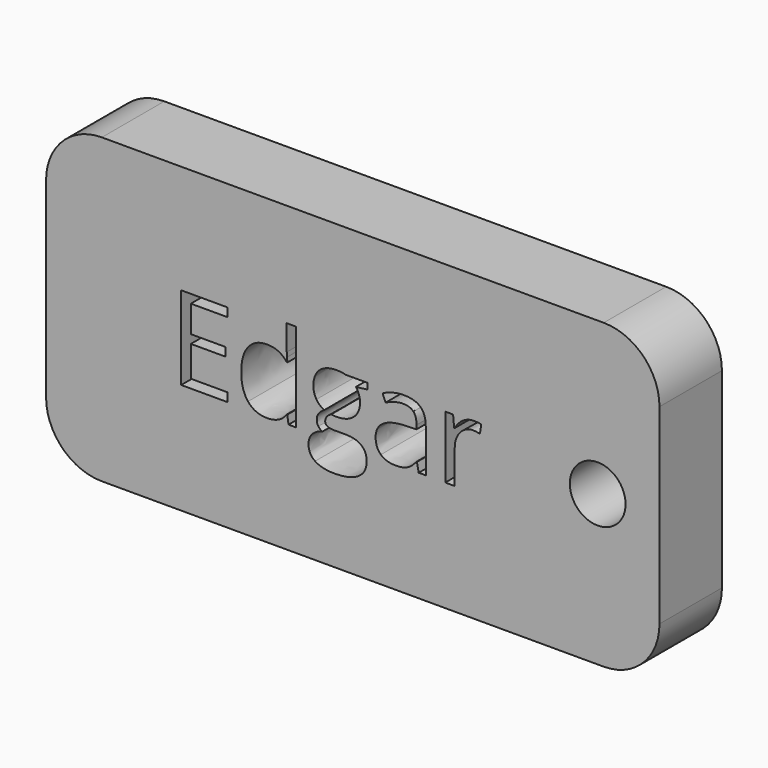
from build123d import *

# Parameters (mm, degrees)
F0_R     = 3.175
F1_DEPTH = 8.89


with BuildPart() as f1:
    # F0 (on Front) → F1 (new body)
    with BuildSketch(Plane.XZ):
        with BuildLine():
            ThreePointArc((-21.9656324044, -6.2401519575), (-20.1057604649, -10.7302800181), (-15.6156324044, -12.5901519575))
            Line((-15.6156324044, -12.5901519575), (41.5343675956, -12.5901519575))
            ThreePointArc((41.5343675956, -12.5901519575), (46.0244956561, -10.7302800181), (47.8843675956, -6.2401519575))
            Line((47.8843675956, -6.2401519575), (47.8843675956, 15.5370884062))
            ThreePointArc((47.8843675956, 15.5370884062), (46.0244956561, 20.0272164667), (41.5343675956, 21.8870884062))
            Line((41.5343675956, 21.8870884062), (-15.6156324044, 21.8870884062))
            ThreePointArc((-15.6156324044, 21.8870884062), (-20.1057604649, 20.0272164667), (-21.9656324044, 15.5370884062))
            Line((-21.9656324044, 15.5370884062), (-21.9656324044, -6.2401519575))
        make_face()
        with BuildLine():
            Line((12.1711680144, 7.1195565384), (14.6323519389, 7.1195565384))
            Line((14.6323519389, 7.1195565384), (14.6323519389, 6.4377420729))
            Line((14.6323519389, 6.4377420729), (13.3144544658, 6.2818393749))
            add(Edge.make_bspline(
                [(13.3144544658, 6.2818393749), (13.4953015954, 6.0552607873), (13.6387320775, 5.6873304202)],
                knots=[0, 0, 0, 1, 1, 1], degree=2))
            add(Edge.make_bspline(
                [(13.6387320775, 5.6873304202), (13.7821625596, 5.3194000531), (13.7821625596, 4.8600067699)],
                knots=[0, 0, 0, 1, 1, 1], degree=2))
            add(Edge.make_bspline(
                [(13.7821625596, 4.8600067699), (13.7821625596, 3.8123406398), (13.0670888518, 3.1887298482)],
                knots=[0, 0, 0, 1, 1, 1], degree=2))
            add(Edge.make_bspline(
                [(13.0670888518, 3.1887298482), (12.352015144, 2.5651190565), (11.1047935606, 2.5651190565)],
                knots=[0, 0, 0, 1, 1, 1], degree=2))
            add(Edge.make_bspline(
                [(11.1047935606, 2.5651190565), (10.7867520569, 2.5651190565), (10.5082059032, 2.6170866224)],
                knots=[0, 0, 0, 1, 1, 1], degree=2))
            add(Edge.make_bspline(
                [(10.5082059032, 2.6170866224), (9.8201553297, 2.2533136606), (9.8201553297, 1.7024574613)],
                knots=[0, 0, 0, 1, 1, 1], degree=2))
            add(Edge.make_bspline(
                [(9.8201553297, 1.7024574613), (9.8201553297, 1.4093603892), (10.0602454845, 1.2700873124)],
                knots=[0, 0, 0, 1, 1, 1], degree=2))
            add(Edge.make_bspline(
                [(10.0602454845, 1.2700873124), (10.3003356393, 1.1308142356), (10.8844510809, 1.1308142356)],
                knots=[0, 0, 0, 1, 1, 1], degree=2))
            Line((10.8844510809, 1.1308142356), (12.1441448801, 1.1308142356))
            add(Edge.make_bspline(
                [(12.1441448801, 1.1308142356), (13.30198225, 1.1308142356), (13.9214356364, 0.6433584668)],
                knots=[0, 0, 0, 1, 1, 1], degree=2))
            add(Edge.make_bspline(
                [(13.9214356364, 0.6433584668), (14.5408890228, 0.1559026979), (14.5408890228, -0.7732773817)],
                knots=[0, 0, 0, 1, 1, 1], degree=2))
            add(Edge.make_bspline(
                [(14.5408890228, -0.7732773817), (14.5408890228, -1.9560591833), (13.5930006194, -2.576551921)],
                knots=[0, 0, 0, 1, 1, 1], degree=2))
            add(Edge.make_bspline(
                [(13.5930006194, -2.576551921), (12.6451122161, -3.1970446587), (10.826247407, -3.1970446587)],
                knots=[0, 0, 0, 1, 1, 1], degree=2))
            add(Edge.make_bspline(
                [(10.826247407, -3.1970446587), (9.4293592336, -3.1970446587), (8.672711473, -2.677368999)],
                knots=[0, 0, 0, 1, 1, 1], degree=2))
            add(Edge.make_bspline(
                [(8.672711473, -2.677368999), (7.9160637125, -2.1576933392), (7.9160637125, -1.2077262332)],
                knots=[0, 0, 0, 1, 1, 1], degree=2))
            add(Edge.make_bspline(
                [(7.9160637125, -1.2077262332), (7.9160637125, -0.5591710099), (8.3318042402, -0.0841874569)],
                knots=[0, 0, 0, 1, 1, 1], degree=2))
            add(Edge.make_bspline(
                [(8.3318042402, -0.0841874569), (8.747544768, 0.3907960961), (9.5000351233, 0.5591710099)],
                knots=[0, 0, 0, 1, 1, 1], degree=2))
            add(Edge.make_bspline(
                [(9.5000351233, 0.5591710099), (9.2277250776, 0.6818144656), (9.0427205428, 0.9416522954)],
                knots=[0, 0, 0, 1, 1, 1], degree=2))
            add(Edge.make_bspline(
                [(9.0427205428, 0.9416522954), (8.8577160079, 1.2014901253), (8.8577160079, 1.5465547634)],
                knots=[0, 0, 0, 1, 1, 1], degree=2))
            add(Edge.make_bspline(
                [(8.8577160079, 1.5465547634), (8.8577160079, 1.9352721569), (9.0655862718, 2.228369229)],
                knots=[0, 0, 0, 1, 1, 1], degree=2))
            add(Edge.make_bspline(
                [(9.0655862718, 2.228369229), (9.2734565357, 2.5214663011), (9.7224563057, 2.7937763468)],
                knots=[0, 0, 0, 1, 1, 1], degree=2))
            add(Edge.make_bspline(
                [(9.7224563057, 2.7937763468), (9.1695214037, 3.0203549344), (8.822378063, 3.5660143771)],
                knots=[0, 0, 0, 1, 1, 1], degree=2))
            add(Edge.make_bspline(
                [(8.822378063, 3.5660143771), (8.4752347223, 4.1116738199), (8.4752347223, 4.8142753118)],
                knots=[0, 0, 0, 1, 1, 1], degree=2))
            add(Edge.make_bspline(
                [(8.4752347223, 4.8142753118), (8.4752347223, 5.9825061949), (9.176796863, 6.6165104998)],
                knots=[0, 0, 0, 1, 1, 1], degree=2))
            add(Edge.make_bspline(
                [(9.176796863, 6.6165104998), (9.8783590036, 7.2505148047), (11.1629972345, 7.2505148047)],
                knots=[0, 0, 0, 1, 1, 1], degree=2))
            add(Edge.make_bspline(
                [(11.1629972345, 7.2505148047), (11.7221682444, 7.2505148047), (12.1711680144, 7.1195565384)],
                knots=[0, 0, 0, 1, 1, 1], degree=2))
        make_face(mode=Mode.SUBTRACT)
        with BuildLine():
            Line((21.2717281678, 0), (20.4714276518, 0))
            Line((20.4714276518, 0), (20.2573212799, 1.0144068878))
            Line((20.2573212799, 1.0144068878), (20.205353714, 1.0144068878))
            add(Edge.make_bspline(
                [(20.205353714, 1.0144068878), (19.6732058384, 0.3450646381), (19.1441760168, 0.1070531859)],
                knots=[0, 0, 0, 1, 1, 1], degree=2))
            add(Edge.make_bspline(
                [(19.1441760168, 0.1070531859), (18.6151461952, -0.1309582663), (17.8210817871, -0.1309582663)],
                knots=[0, 0, 0, 1, 1, 1], degree=2))
            add(Edge.make_bspline(
                [(17.8210817871, -0.1309582663), (16.7630221439, -0.1309582663), (16.1622770812, 0.4157405278)],
                knots=[0, 0, 0, 1, 1, 1], degree=2))
            add(Edge.make_bspline(
                [(16.1622770812, 0.4157405278), (15.5615320185, 0.9624393218), (15.5615320185, 1.9685313991)],
                knots=[0, 0, 0, 1, 1, 1], degree=2))
            add(Edge.make_bspline(
                [(15.5615320185, 1.9685313991), (15.5615320185, 4.1241460357), (19.0100996966, 4.2280811676)],
                knots=[0, 0, 0, 1, 1, 1], degree=2))
            Line((19.0100996966, 4.2280811676), (20.2178259298, 4.2675765178))
            Line((20.2178259298, 4.2675765178), (20.2178259298, 4.7103401799))
            add(Edge.make_bspline(
                [(20.2178259298, 4.7103401799), (20.2178259298, 5.5480573434), (19.8582103733, 5.9471682501)],
                knots=[0, 0, 0, 1, 1, 1], degree=2))
            add(Edge.make_bspline(
                [(19.8582103733, 5.9471682501), (19.4985948167, 6.3462791567), (18.7045304086, 6.3462791567)],
                knots=[0, 0, 0, 1, 1, 1], degree=2))
            add(Edge.make_bspline(
                [(18.7045304086, 6.3462791567), (17.8148456792, 6.3462791567), (16.6923462541, 5.8016590653)],
                knots=[0, 0, 0, 1, 1, 1], degree=2))
            Line((16.6923462541, 5.8016590653), (16.3597538319, 6.626904013))
            add(Edge.make_bspline(
                [(16.3597538319, 6.626904013), (16.8856655996, 6.9116862745), (17.5123944452, 7.0738250804)],
                knots=[0, 0, 0, 1, 1, 1], degree=2))
            add(Edge.make_bspline(
                [(17.5123944452, 7.0738250804), (18.1391232908, 7.2359638862), (18.7710488931, 7.2359638862)],
                knots=[0, 0, 0, 1, 1, 1], degree=2))
            add(Edge.make_bspline(
                [(18.7710488931, 7.2359638862), (20.0432149081, 7.2359638862), (20.6574715379, 6.6715961197)],
                knots=[0, 0, 0, 1, 1, 1], degree=2))
            add(Edge.make_bspline(
                [(20.6574715379, 6.6715961197), (21.2717281678, 6.1072283533), (21.2717281678, 4.8600067699)],
                knots=[0, 0, 0, 1, 1, 1], degree=2))
            Line((21.2717281678, 4.8600067699), (21.2717281678, 0))
        make_face(mode=Mode.SUBTRACT)
        with BuildLine():
            add(Edge.make_bspline(
                [(25.5122815512, 6.8732302757), (26.0714525611, 7.2505148047), (26.7407948108, 7.2505148047)],
                knots=[0, 0, 0, 1, 1, 1], degree=2))
            add(Edge.make_bspline(
                [(26.7407948108, 7.2505148047), (27.2147390125, 7.2505148047), (27.5909841902, 7.1715241044)],
                knots=[0, 0, 0, 1, 1, 1], degree=2))
            Line((27.5909841902, 7.1715241044), (27.4413176002, 6.1716681351))
            add(Edge.make_bspline(
                [(27.4413176002, 6.1716681351), (27.0006326407, 6.2693671591), (26.6618041106, 6.2693671591)],
                knots=[0, 0, 0, 1, 1, 1], degree=2))
            add(Edge.make_bspline(
                [(26.6618041106, 6.2693671591), (25.7970638128, 6.2693671591), (25.1838465343, 5.5678050184)],
                knots=[0, 0, 0, 1, 1, 1], degree=2))
            add(Edge.make_bspline(
                [(25.1838465343, 5.5678050184), (24.5706292558, 4.8662428778), (24.5706292558, 3.8206554504)],
                knots=[0, 0, 0, 1, 1, 1], degree=2))
            Line((24.5706292558, 3.8206554504), (24.5706292558, 0))
            Line((24.5706292558, 0), (23.4917825862, 0))
            Line((23.4917825862, 0), (23.4917825862, 7.1195565384))
            Line((23.4917825862, 7.1195565384), (24.3814673156, 7.1195565384))
            Line((24.3814673156, 7.1195565384), (24.506189474, 5.8016590653))
            Line((24.506189474, 5.8016590653), (24.5581570399, 5.8016590653))
            add(Edge.make_bspline(
                [(24.5581570399, 5.8016590653), (24.9531105413, 6.4959457467), (25.5122815512, 6.8732302757)],
                knots=[0, 0, 0, 1, 1, 1], degree=2))
        make_face(mode=Mode.SUBTRACT)
        with Locations((40.8501774073, 4.5076054521)):
            Circle(F0_R, mode=Mode.SUBTRACT)
        Polygon((-1.2884315729, 0.9873837535), (-1.2884315729, 0), (-6.5828871943, 0), (-6.5828871943, 9.4975923574), (-1.2884315729, 9.4975923574), (-1.2884315729, 8.5164447118), (-5.479096093, 8.5164447118), (-5.479096093, 5.4565944273), (-1.5420332948, 5.4565944273), (-1.5420332948, 4.4816828896), (-5.479096093, 4.4816828896), (-5.479096093, 0.9873837535), align=None, mode=Mode.SUBTRACT)
        with BuildLine():
            Line((5.6419630254, 0), (5.4985325433, 0.9541245113))
            Line((5.4985325433, 0.9541245113), (5.4403288695, 0.9541245113))
            add(Edge.make_bspline(
                [(5.4403288695, 0.9541245113), (4.6940746221, -0.1309582663), (3.2057235326, -0.1309582663)],
                knots=[0, 0, 0, 1, 1, 1], degree=2))
            add(Edge.make_bspline(
                [(3.2057235326, -0.1309582663), (1.8088353592, -0.1309582663), (1.0324399235, 0.8242055963)],
                knots=[0, 0, 0, 1, 1, 1], degree=2))
            add(Edge.make_bspline(
                [(1.0324399235, 0.8242055963), (0.2560444879, 1.7793694589), (0.2560444879, 3.5400305941)],
                knots=[0, 0, 0, 1, 1, 1], degree=2))
            add(Edge.make_bspline(
                [(0.2560444879, 3.5400305941), (0.2560444879, 5.3006917293), (1.0355579775, 6.275603267)],
                knots=[0, 0, 0, 1, 1, 1], degree=2))
            add(Edge.make_bspline(
                [(1.0355579775, 6.275603267), (1.8150714671, 7.2505148047), (3.2057235326, 7.2505148047)],
                knots=[0, 0, 0, 1, 1, 1], degree=2))
            add(Edge.make_bspline(
                [(3.2057235326, 7.2505148047), (4.6545792719, 7.2505148047), (5.4278566536, 6.1966125667)],
                knots=[0, 0, 0, 1, 1, 1], degree=2))
            Line((5.4278566536, 6.1966125667), (5.5130834618, 6.1966125667))
            Line((5.5130834618, 6.1966125667), (5.4673520038, 6.7100521186))
            Line((5.4673520038, 6.7100521186), (5.4403288695, 7.2110194545))
            Line((5.4403288695, 7.2110194545), (5.4403288695, 10.1087309332))
            Line((5.4403288695, 10.1087309332), (6.5191755391, 10.1087309332))
            Line((6.5191755391, 10.1087309332), (6.5191755391, 0))
            Line((6.5191755391, 0), (5.6419630254, 0))
        make_face(mode=Mode.SUBTRACT)
    extrude(amount=F1_DEPTH)


solid = f1.part
